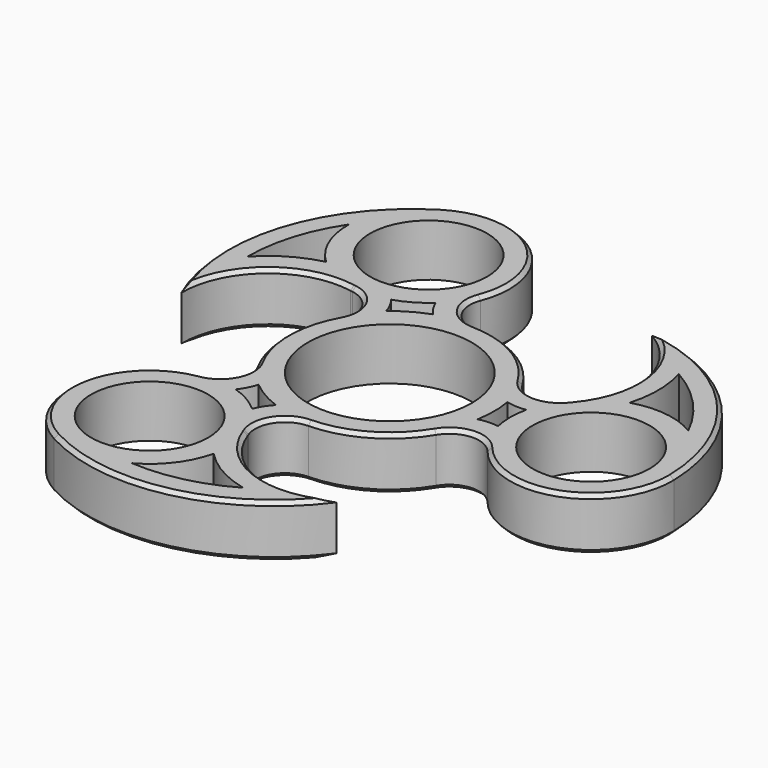
from build123d import *

# Parameters (mm, degrees)
F0_R     = 7.85
F0_R_2   = 11
F1_DEPTH = 3.5
F2_SIZE  = 0.5


with BuildPart() as f1:
    # F0 (on Top) → F1 (new body, symmetric)
    with BuildSketch(Plane.XY):
        with BuildLine():
            ThreePointArc((11.990417, -7.227026), (15.149203, -5.300815), (18.536452, -6.789025))
            ThreePointArc((18.536452, -6.789025), (30.738328, -10.185647), (37.845909, 0.297917))
            ThreePointArc((37.845909, 0.297917), (31.238527, 16.554265), (15.574074, 24.463201))
            ThreePointArc((15.574074, 24.463201), (21.25735, 16.476695), (18.717818, 7.009135))
            Line((18.717818, 7.009135), (18.536452, 6.789025))
            ThreePointArc((18.536452, 6.789025), (15.149203, 5.300815), (11.990417, 7.227026))
            ThreePointArc((11.990417, 7.227026), (7, 12.124356), (0.26358, 13.997519))
            ThreePointArc((0.26358, 13.997519), (-2.983961, 15.770002), (-3.388758, 19.447551))
            ThreePointArc((-3.388758, 19.447551), (-6.548135, 31.712997), (-19.180959, 32.62656))
            ThreePointArc((-19.180959, 32.62656), (-29.955678, 18.776225), (-28.972791, 1.255943))
            ThreePointArc((-28.972791, 1.255943), (-24.897911, 10.171058), (-15.428998, 12.705539))
            Line((-15.428998, 12.705539), (-15.147694, 12.658526))
            ThreePointArc((-15.147694, 12.658526), (-12.165242, 10.469187), (-12.253997, 6.770492))
            ThreePointArc((-12.253997, 6.770492), (-14, 0), (-12.253997, -6.770492))
            ThreePointArc((-12.253997, -6.770492), (-12.165242, -10.469187), (-15.147694, -12.658526))
            ThreePointArc((-15.147694, -12.658526), (-24.190193, -21.52735), (-18.664951, -32.924477))
            ThreePointArc((-18.664951, -32.924477), (-1.282849, -35.330491), (13.398717, -25.719144))
            ThreePointArc((13.398717, -25.719144), (3.640561, -26.647752), (-3.288821, -19.714673))
            Line((-3.288821, -19.714673), (-3.388758, -19.447551))
            ThreePointArc((-3.388758, -19.447551), (-2.983961, -15.770002), (0.26358, -13.997519))
            ThreePointArc((0.26358, -13.997519), (7, -12.124356), (11.990417, -7.227026))
        make_face()
        with BuildLine():
            ThreePointArc((4.290765, -29.959535), (-1.768845, -32.364165), (-8.267103, -32.887384))
            ThreePointArc((-8.267103, -32.887384), (-4.854938, -29.939011), (-2.936149, -25.858076))
            ThreePointArc((-2.936149, -25.858076), (0.377208, -28.437591), (4.290765, -29.959535))
        make_face(mode=Mode.SUBTRACT)
        with Locations((-13.5, -23.382686)):
            Circle(F0_R, mode=Mode.SUBTRACT)
        with BuildLine():
            ThreePointArc((-10.25149, -13.030407), (-9.535528, -11.916841), (-9.042029, -10.688391))
            ThreePointArc((-9.042029, -10.688391), (-7, -12.124356), (-4.735404, -13.174823))
            ThreePointArc((-4.735404, -13.174823), (-5.552523, -14.21643), (-6.158919, -15.393254))
            ThreePointArc((-6.158919, -15.393254), (-8.075, -13.98631), (-10.25149, -13.030407))
        make_face(mode=Mode.SUBTRACT)
        Circle(F0_R_2, mode=Mode.SUBTRACT)
        with BuildLine():
            ThreePointArc((-6.158919, 15.393254), (-5.552523, 14.21643), (-4.735404, 13.174823))
            ThreePointArc((-4.735404, 13.174823), (-7, 12.124356), (-9.042029, 10.688391))
            ThreePointArc((-9.042029, 10.688391), (-9.535528, 11.916841), (-10.25149, 13.030407))
            ThreePointArc((-10.25149, 13.030407), (-8.075, 13.98631), (-6.158919, 15.393254))
        make_face(mode=Mode.SUBTRACT)
        with BuildLine():
            ThreePointArc((-28.091101, 11.263856), (-27.143766, 17.713947), (-24.347759, 23.603213))
            ThreePointArc((-24.347759, 23.603213), (-23.500475, 19.174005), (-20.925676, 15.471818))
            ThreePointArc((-20.925676, 15.471818), (-24.816281, 13.892124), (-28.091101, 11.263856))
        make_face(mode=Mode.SUBTRACT)
        with Locations((-13.5, 23.382686)):
            Circle(F0_R, mode=Mode.SUBTRACT)
        with BuildLine():
            ThreePointArc((16.410408, -2.362847), (15.088051, -2.299589), (13.777433, -2.486431))
            ThreePointArc((13.777433, -2.486431), (14, 0), (13.777433, 2.486431))
            ThreePointArc((13.777433, 2.486431), (15.088051, 2.299589), (16.410408, 2.362847))
            ThreePointArc((16.410408, 2.362847), (16.15, 0), (16.410408, -2.362847))
        make_face(mode=Mode.SUBTRACT)
        with Locations((27, 0)):
            Circle(F0_R, mode=Mode.SUBTRACT)
        with BuildLine():
            ThreePointArc((23.800336, 18.695679), (28.912611, 14.650218), (32.614862, 9.284171))
            ThreePointArc((32.614862, 9.284171), (28.355413, 10.765006), (23.861825, 10.386258))
            ThreePointArc((23.861825, 10.386258), (24.439072, 14.545468), (23.800336, 18.695679))
        make_face(mode=Mode.SUBTRACT)
    extrude(amount=F1_DEPTH, both=True)

    # F2
    f2_edges = [f1.edges().sort_by_distance(p)[0] for p in [
        (7, -12.124356, -3.5),
        (-24.190193, -21.52735, -3.5),
        (3.640561, -26.647752, -3.5),
        (-24.897911, 10.171058, -3.5),
        (-29.955678, 18.776225, -3.5),
        (21.25735, 16.476695, -3.5),
        (21.25735, 16.476695, 3.5),
        (7, 12.124356, 3.5),
        (31.238527, 16.554265, 3.5),
        (3.640561, -26.647752, 3.5),
        (-1.282849, -35.330491, 3.5),
        (-24.897911, 10.171058, 3.5),
    ]]
    chamfer(f2_edges, length=F2_SIZE)


solid = f1.part
